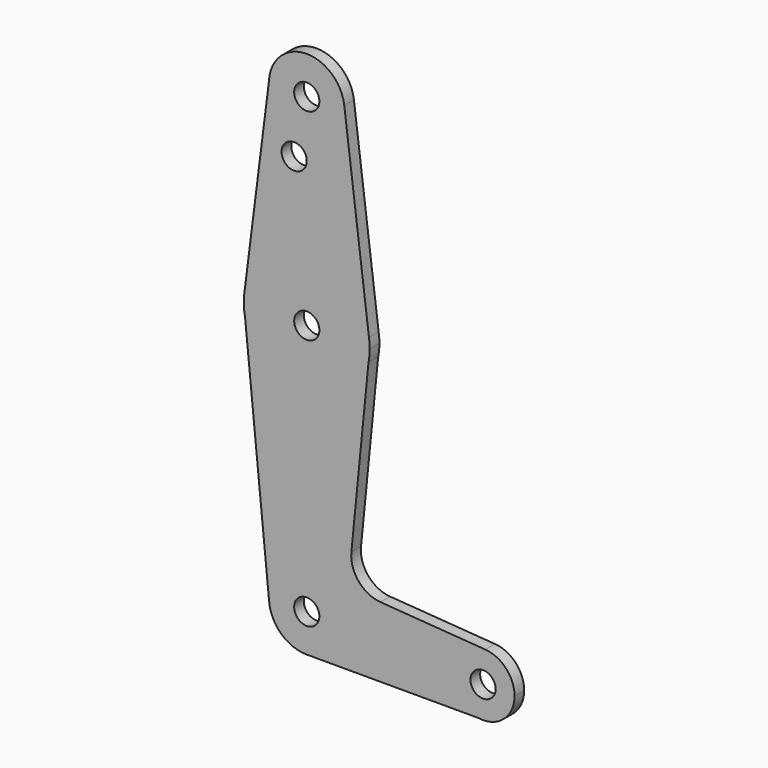
from build123d import *

# Parameters (mm, degrees)
F0_R     = 3.175
F1_DEPTH = 3.048


with BuildPart() as f1:
    # F0 (on Front) → F1 (new body)
    with BuildSketch(Plane.XZ):
        with BuildLine():
            ThreePointArc((-15.875, 0), (-15.7973641936, -1.5680910484), (-15.5652161214, -3.1208447723))
            Line((-15.5652161214, -3.1208447723), (-15.875, 0))
        make_face()
        with BuildLine():
            ThreePointArc((15.5652161214, -3.1208447723), (15.7973641936, -1.5680910484), (15.875, 0))
            Line((15.875, 0), (15.5652161214, -3.1208447723))
        make_face()
        with BuildLine():
            ThreePointArc((-9.3508675688, 52.6129811665), (-9.4498056644, 51.9944864611), (-9.5078800041, 51.3708264428))
            Line((-9.5078800041, 51.3708264428), (-9.3508675688, 52.6129811665))
        make_face()
        with BuildLine():
            Line((45.6418137513, -73.025), (43.2581862487, -73.025))
            ThreePointArc((43.2581862487, -73.025), (44.45, -73.1149853468), (45.6418137513, -73.025))
        make_face()
        with BuildLine():
            ThreePointArc((9.525, -63.5), (-0.4710035211, -53.9866524986), (-9.4784185161, -64.440854629))
            ThreePointArc((-9.4784185161, -64.440854629), (-6.3939027463, -70.5600023138), (0, -73.025))
            ThreePointArc((0, -73.025), (6.7351920908, -70.2351920908), (9.525, -63.5))
        make_face()
        with Locations((0, -63.5)):
            Circle(F0_R, mode=Mode.SUBTRACT)
        with BuildLine():
            Line((11.2477096891, -46.6165471362), (15.5652161214, -3.1208447723))
            ThreePointArc((15.5652161214, -3.1208447723), (0, -15.875), (-15.5652161214, -3.1208447723))
            Line((-15.5652161214, -3.1208447723), (-9.4784185161, -64.440854629))
            ThreePointArc((-9.4784185161, -64.440854629), (-0.4710035211, -53.9866524986), (9.525, -63.5))
            ThreePointArc((9.525, -63.5), (6.7351920908, -70.2351920908), (0, -73.025))
            Line((0, -73.025), (43.2581862487, -73.025))
            ThreePointArc((43.2581862487, -73.025), (36.5620408569, -64.2920437585), (45.0277272963, -57.2610380741))
            Line((45.0277272963, -57.2610380741), (18.5803780172, -55.3309607216))
            ThreePointArc((18.5803780172, -55.3309607216), (13.0758433673, -52.5204919109), (11.2477096891, -46.6165471362))
        make_face()
        with BuildLine():
            ThreePointArc((9.525, 50.8), (9.5063480876, 51.3957944585), (9.4504653991, 51.9892555403))
            ThreePointArc((9.4504653991, 51.9892555403), (0.315813784, 60.3197629516), (-9.3508675688, 52.6129811665))
            Line((-9.3508675688, 52.6129811665), (-9.5078800041, 51.3708264428))
            ThreePointArc((-9.5078800041, 51.3708264428), (-0.2855415565, 41.279280961), (9.525, 50.8))
        make_face()
        with Locations((0, 50.8)):
            Circle(F0_R, mode=Mode.SUBTRACT)
        with BuildLine():
            ThreePointArc((52.3875, -65.1774853468), (50.2633302273, -59.7729411553), (45.0277272963, -57.2610380741))
            ThreePointArc((45.0277272963, -57.2610380741), (36.5620408569, -64.2920437585), (43.2581862487, -73.025))
            Line((43.2581862487, -73.025), (45.6418137513, -73.025))
            ThreePointArc((45.6418137513, -73.025), (50.4692992906, -70.3516463705), (52.3875, -65.1774853468))
        make_face()
        with Locations((44.45, -65.1774853468)):
            Circle(F0_R, mode=Mode.SUBTRACT)
        with BuildLine():
            Line((15.5652161214, -3.1208447723), (15.875, 0))
            ThreePointArc((15.875, 0), (15.8270302286, 1.2331825257), (15.6834108168, 2.4589123919))
            ThreePointArc((15.6834108168, 2.4589123919), (-0.2363843367, 15.8732399795), (-15.7496761073, 1.9908107685))
            ThreePointArc((-15.7496761073, 1.9908107685), (-15.8436380482, 0.9973757559), (-15.875, 0))
            Line((-15.875, 0), (-15.5652161214, -3.1208447723))
            ThreePointArc((-15.5652161214, -3.1208447723), (0, -15.875), (15.5652161214, -3.1208447723))
        make_face()
        Circle(F0_R, mode=Mode.SUBTRACT)
        with BuildLine():
            ThreePointArc((-15.7496761073, 1.9908107685), (-0.2363843367, 15.8732399795), (15.6834108168, 2.4589123919))
            Line((15.6834108168, 2.4589123919), (9.4504653991, 51.9892555403))
            ThreePointArc((9.4504653991, 51.9892555403), (9.5063480876, 51.3957944585), (9.525, 50.8))
            ThreePointArc((9.525, 50.8), (-0.2855415565, 41.279280961), (-9.5078800041, 51.3708264428))
            Line((-9.5078800041, 51.3708264428), (-15.7496761073, 1.9908107685))
        make_face()
        with Locations((-3.175, 36.5252)):
            Circle(F0_R, mode=Mode.SUBTRACT)
    extrude(amount=F1_DEPTH)


solid = f1.part
